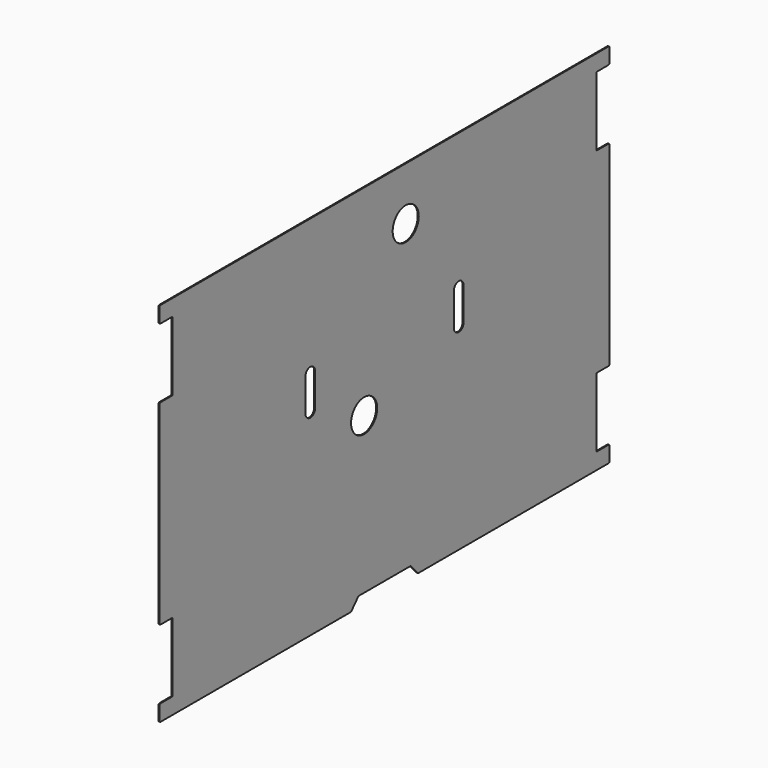
from build123d import *

# Parameters (mm, degrees)
F0_W     = 1752.6
F0_H     = 1143
F1_DEPTH = 1.5875
F2_W     = 50.8
F2_H     = 215.9
F3_DEPTH = 3.176
F5_DEPTH = 3.176
F6_R     = 50.8
F7_DEPTH = 3.176
F9_DEPTH = 3.176
F10_R    = 5.08


with BuildPart() as f1:
    # F0 (on Right) → F1 (new body, symmetric)
    with BuildSketch(Plane.YZ):
        Rectangle(F0_W, F0_H)
    extrude(amount=F1_DEPTH, both=True)

    # F2 (on face) → F3 (cut, through all)
    with BuildSketch(Plane.YZ.offset(1.5875)):
        with Locations((-850.9, 412.75)):
            Rectangle(F2_W, F2_H)
        with Locations((850.9, 412.75)):
            Rectangle(F2_W, F2_H)
        with Locations((-850.9, -412.75)):
            Rectangle(F2_W, F2_H)
        with Locations((850.9, -412.75)):
            Rectangle(F2_W, F2_H)
    extrude(amount=-F3_DEPTH, mode=Mode.SUBTRACT)

    # F4 (on face) → F5 (cut, through all)
    with BuildSketch(Plane.YZ.offset(1.5875)):
        with BuildLine():
            Line((-269.875, 44.45), (-269.875, 146.05))
            ThreePointArc((-269.875, 146.05), (-288.925, 165.1), (-307.975, 146.05))
            Line((-307.975, 146.05), (-307.975, 44.45))
            ThreePointArc((-307.975, 44.45), (-288.925, 25.4), (-269.875, 44.45))
        make_face()
        with BuildLine():
            ThreePointArc((307.975, 146.05), (288.925, 165.1), (269.875, 146.05))
            Line((269.875, 146.05), (269.875, 44.45))
            ThreePointArc((269.875, 44.45), (288.925, 25.4), (307.975, 44.45))
            Line((307.975, 44.45), (307.975, 146.05))
        make_face()
    extrude(amount=-F5_DEPTH, mode=Mode.SUBTRACT)

    # F6 (on face) → F7 (cut, through all)
    with BuildSketch(Plane.YZ.offset(1.5875)):
        with Locations((82.55, 406.4)):
            Circle(F6_R)
        with Locations((-79.375, -53.975)):
            Circle(F6_R)
    extrude(amount=-F7_DEPTH, mode=Mode.SUBTRACT)

    # F8 (on face) → F9 (cut, through all)
    with BuildSketch(Plane.YZ.offset(1.5875)):
        Polygon((-101.6, -539.75), (-130.175, -571.5), (130.175, -571.5), (101.6, -539.75), align=None)
    extrude(amount=-F9_DEPTH, mode=Mode.SUBTRACT)

    # F10
    f10_edges = [f1.edges().sort_by_distance(p)[0] for p in [
        (0, -876.3, -571.5),
        (0, -876.3, -520.7),
        (0, -876.3, -304.8),
        (0, -876.3, 304.8),
        (0, -876.3, 520.7),
        (0, -876.3, 571.5),
        (0, 876.3, 571.5),
        (0, 876.3, 520.7),
        (0, 876.3, 304.8),
        (0, 876.3, -304.8),
        (0, 876.3, -520.7),
        (0, 876.3, -571.5),
        (0, 130.175, -571.5),
        (0, -130.175, -571.5),
        (0, -101.6, -539.75),
        (0, 101.6, -539.75),
    ]]
    fillet(f10_edges, radius=F10_R)


solid = f1.part
